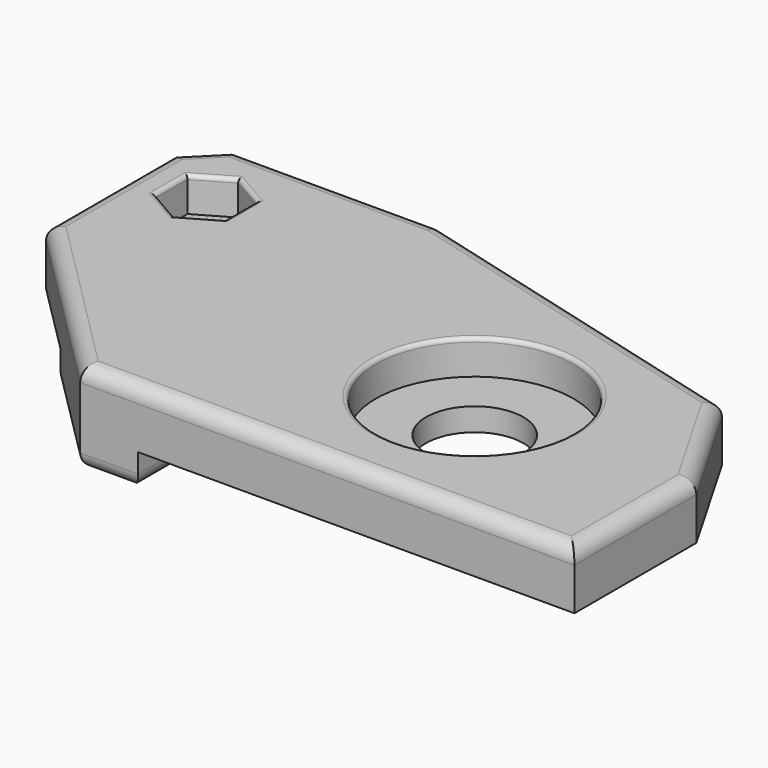
from build123d import *

# Parameters (mm, degrees)
SKETCH019_R     = 4.25
PAD010_DEPTH    = 5
PAD009_DEPTH    = 3
SKETCH021_R     = 8.625
POCKET008_DEPTH = 3
POCKET009_DEPTH = 3
SKETCH018_R     = 1.6
POCKET007_DEPTH = 8.001
SKETCH022_R     = 1.6
PAD011_DEPTH    = 3
FILLET020_R     = 0.35
FILLET021_R     = 0.35
FILLET022_R     = 0.25
FILLET023_R     = 1.3
FILLET024_R     = 1.3


with BuildPart() as part:
    # Sketch019 → Pad010 (new body)
    with BuildSketch(Plane.XY):
        Polygon((-3, 6.9), (15, 6.9), (46.204036, -1.461096), (52, -11.5), (52, -24.8), (8.85, -24.8), (-6.05, -9.9), (-6.05, 3.85), align=None)
        with Locations((32.65, -11.5)):
            Circle(SKETCH019_R, mode=Mode.SUBTRACT)
    extrude(amount=PAD010_DEPTH)

    # Sketch020 → Pad009 (join)
    with BuildSketch(Plane.XY):
        Polygon((0.3, -16.25), (13.9, -16.25), (13.9, -24.8), (8.85, -24.8), align=None)
    extrude(amount=-PAD009_DEPTH)

    # Sketch021 → Pocket008 (cut)
    with BuildSketch(Plane.XY.offset(5)):
        with Locations((32.65, -11.5)):
            Circle(SKETCH021_R)
    extrude(amount=-POCKET008_DEPTH, mode=Mode.SUBTRACT)

    # Sketch017 → Pocket009 (cut)
    with BuildSketch(Plane.XY.offset(5)):
        Polygon((0, -3.5), (3.031089, -1.75), (3.031089, 1.75), (0, 3.5), (-3.031089, 1.75), (-3.031089, -1.75), align=None)
    extrude(amount=-POCKET009_DEPTH, mode=Mode.SUBTRACT)

    # Sketch018 → Pocket007 (cut, through all)
    with BuildSketch(Plane.XY.offset(-3)):
        Circle(SKETCH018_R)
    extrude(amount=POCKET007_DEPTH, mode=Mode.SUBTRACT)

    # Sketch022 → Pad011 (join)
    with BuildSketch(Plane.XY):
        Polygon((0, -3.15), (2.72798, -1.575), (2.72798, 1.575), (0, 3.15), (-2.72798, 1.575), (-2.72798, -1.575), align=None)
        Circle(SKETCH022_R, mode=Mode.SUBTRACT)
    extrude(amount=-PAD011_DEPTH)

    # Fillet020
    fillet020_edges = [part.edges().sort_by_distance(p)[0] for p in [
        (-1.515544, -2.625, 5),
        (-3.031089, 0, 5),
        (-1.515544, 2.625, 5),
        (1.515544, 2.625, 5),
        (3.031089, 0, 5),
        (1.515544, -2.625, 5),
    ]]
    fillet(fillet020_edges, radius=FILLET020_R)

    # Fillet021
    fillet021_edges = [part.edges().sort_by_distance(p)[0] for p in [
        (24.025, -11.5, 5),
    ]]
    fillet(fillet021_edges, radius=FILLET021_R)

    # Fillet022
    fillet022_edges = [part.edges().sort_by_distance(p)[0] for p in [
        (1.36399, -2.3625, -3),
        (2.72798, 0, -3),
        (1.36399, 2.3625, -3),
        (-1.36399, 2.3625, -3),
        (-2.72798, 0, -3),
        (-1.36399, -2.3625, -3),
        (-1.6, 0, -3),
    ]]
    fillet(fillet022_edges, radius=FILLET022_R)

    # Fillet023
    fillet023_edges = [part.edges().sort_by_distance(p)[0] for p in [
        (7.1, -16.25, -3),
        (13.9, -20.525, -3),
        (11.375, -24.8, -3),
        (4.575, -20.525, -3),
    ]]
    fillet(fillet023_edges, radius=FILLET023_R)

    # Fillet024
    fillet024_edges = [part.edges().sort_by_distance(p)[0] for p in [
        (52, -18.15, 5),
        (30.425, -24.8, 5),
        (1.4, -17.35, 5),
        (-6.05, -3.025, 5),
        (-4.525, 5.375, 5),
        (6, 6.9, 5),
        (30.602018, 2.719452, 5),
        (49.102018, -6.480548, 5),
    ]]
    fillet(fillet024_edges, radius=FILLET024_R)


with BuildPart() as part_1:
    # Body003 placement: moved
    add(part.part.moved(Location((2.25, -88, 0))))


solid = part_1.part
